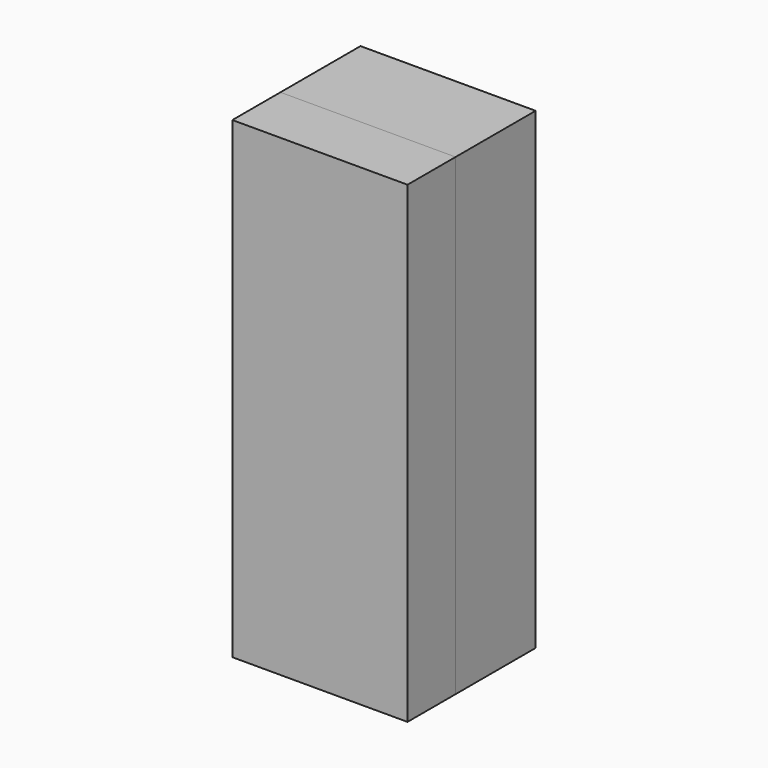
from build123d import *

# Parameters (mm, degrees)
F0_W     = 889
F0_H     = 508
F1_DEPTH = 2400.3
F2_W     = 889
F2_H     = 304.8
F3_DEPTH = 2400.3
F5_W     = 736.6
F5_H     = 495.3
F6_DEPTH = 1873.25


with BuildPart() as f1:
    # F0 (on Top) → F1 (new body)
    with BuildSketch(Plane.XY):
        Rectangle(F0_W, F0_H)
    extrude(amount=F1_DEPTH)


with BuildPart() as f3:
    # F2 (on Top) → F3 (new body)
    with BuildSketch(Plane.XY):
        with Locations((0, -406.4)):
            Rectangle(F2_W, F2_H)
    extrude(amount=F3_DEPTH)


with BuildPart() as f6:
    # F5 (on offset) → F6 (new body)
    with BuildSketch(Plane(origin=(0, 0, 63.5), x_dir=(1, 0, 0), z_dir=(0, 0, -1))):
        with Locations((38.1, -6.35)):
            Rectangle(F5_W, F5_H)
    extrude(amount=-F6_DEPTH)


solid = Compound([f1.part, f3.part, f6.part])
